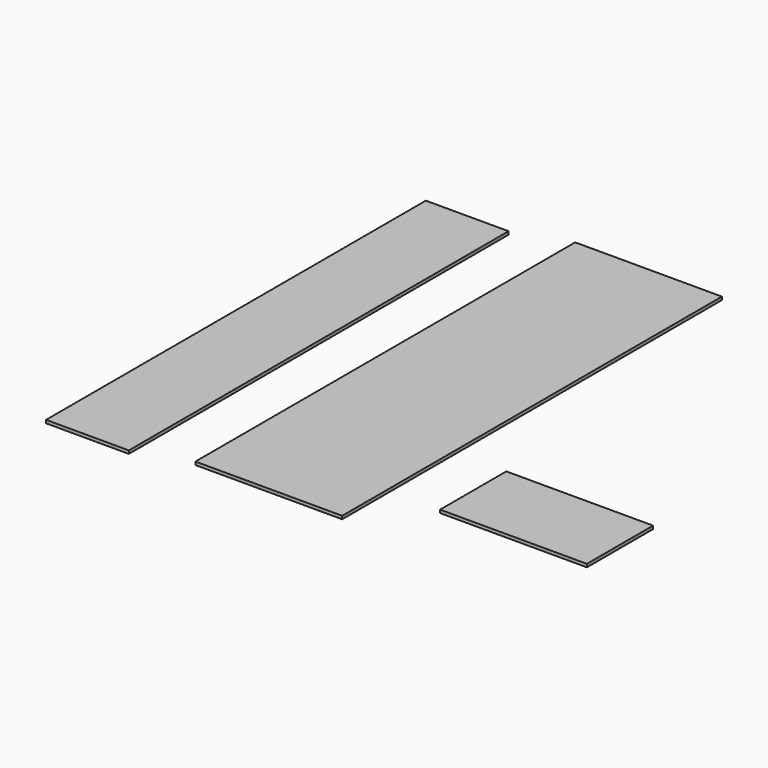
from build123d import *

# Parameters (mm, degrees)
F0_W     = 168.275
F0_H     = 965.2
F0_W_2   = 298.45
F0_H_2   = 168.275
F1_DEPTH = 6.35


with BuildPart() as f1:
    # F0 (on Top) → F1 (new body)
    with BuildSketch(Plane.XY):
        with Locations((-267.479062, 315.489411)):
            Rectangle(F0_W, F0_H)
        with Locations((72.40336, 351.575624)):
            Rectangle(F0_W_2, F0_H)
        with Locations((479.066435, 66.789717)):
            Rectangle(F0_W_2, F0_H_2)
    extrude(amount=F1_DEPTH)


solid = f1.part
